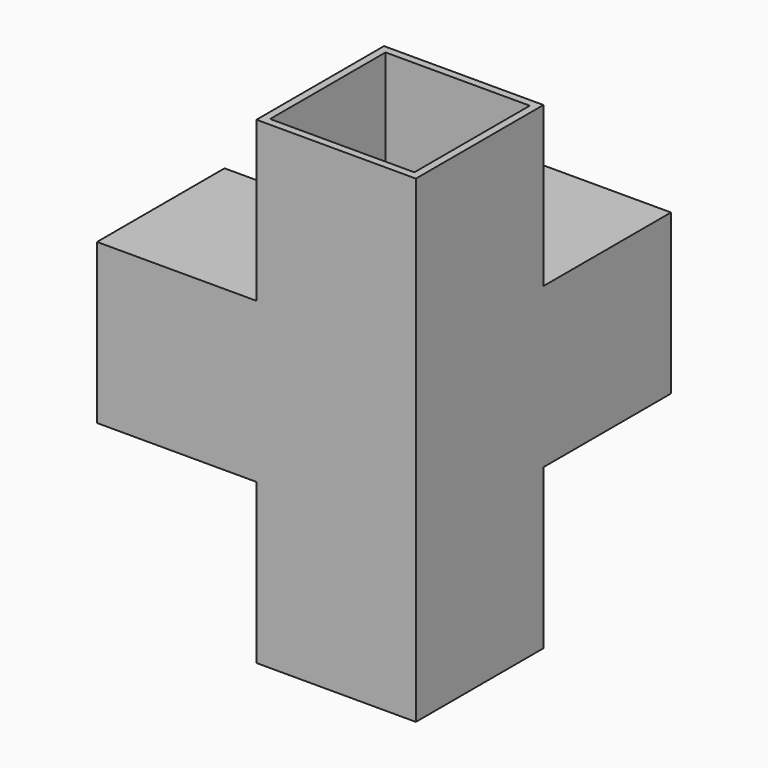
from build123d import *

# Parameters (mm, degrees)
F0_W      = 42
F0_H      = 42
F1_DEPTH  = 42
F2_W      = 21
F2_H      = 21
F3_DEPTH  = 42
F4_W      = 21
F4_H      = 21
F5_DEPTH  = 21
F6_W      = 21
F6_H      = 21
F7_DEPTH  = 21
F8_W      = 19
F8_H      = 19
F9_DEPTH  = 41
F10_W     = 19
F10_H     = 19
F11_DEPTH = 41
F12_W     = 19
F12_H     = 19
F13_DEPTH = 41
F14_W     = 21
F14_H     = 21
F15_DEPTH = 21
F16_R     = 6
F17_DEPTH = 18


with BuildPart() as f1:
    # F0 (on Top) → F1 (new body)
    with BuildSketch(Plane.XY):
        Rectangle(F0_W, F0_H)
    extrude(amount=F1_DEPTH)

    # F2 (on face) → F3 (cut, through all)
    with BuildSketch(Plane.XY.offset(42)):
        with Locations((-10.5, 10.5)):
            Rectangle(F2_W, F2_H)
    extrude(amount=-F3_DEPTH, mode=Mode.SUBTRACT)

    # F4 (on face) → F5 (cut, through all)
    with BuildSketch(Plane.XZ.offset(21)):
        with Locations((-10.5, 31.5)):
            Rectangle(F4_W, F4_H)
    extrude(amount=-F5_DEPTH, mode=Mode.SUBTRACT)

    # F6 (on face) → F7 (cut, through all)
    with BuildSketch(Plane.YZ.offset(21)):
        with Locations((10.5, 31.5)):
            Rectangle(F6_W, F6_H)
    extrude(amount=-F7_DEPTH, mode=Mode.SUBTRACT)

    # F8 (on face) → F9 (cut)
    with BuildSketch(Plane.XY.offset(42)):
        with Locations((10.5, -10.5)):
            Rectangle(F8_W, F8_H)
    extrude(amount=-F9_DEPTH, mode=Mode.SUBTRACT)

    # F10 (on face) → F11 (cut)
    with BuildSketch(Plane(origin=(-21, 0, 0), x_dir=(0, -1, 0), z_dir=(-1, 0, 0))):
        with Locations((10.5, 10.5)):
            Rectangle(F10_W, F10_H)
    extrude(amount=-F11_DEPTH, mode=Mode.SUBTRACT)

    # F12 (on face) → F13 (cut)
    with BuildSketch(Plane(origin=(0, 21, 0), x_dir=(-1, 0, 0), z_dir=(0, 1, 0))):
        with Locations((-10.5, 10.5)):
            Rectangle(F12_W, F12_H)
    extrude(amount=-F13_DEPTH, mode=Mode.SUBTRACT)

    # F14 (on face) → F15 (join)
    with BuildSketch(Plane(origin=(0, 0, 0), x_dir=(1, 0, 0), z_dir=(0, 0, -1))):
        with Locations((10.5, 10.5)):
            Rectangle(F14_W, F14_H)
    extrude(amount=F15_DEPTH)

    # F16 (on face) → F17 (cut)
    with BuildSketch(Plane(origin=(0, 0, -21), x_dir=(1, 0, 0), z_dir=(0, 0, -1))):
        with Locations((10.5, 10.5)):
            Circle(F16_R)
    extrude(amount=-F17_DEPTH, mode=Mode.SUBTRACT)


solid = f1.part
